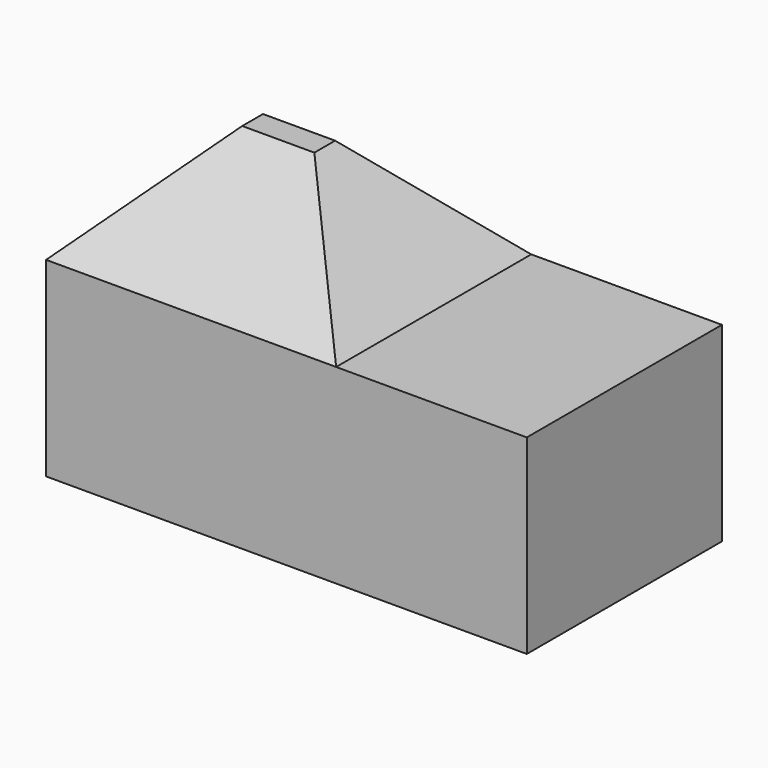
from build123d import *

# Parameters (mm, degrees)
F0_W     = 135.237008
F0_H     = 113.707788
F1_DEPTH = 139.7
F2_SIZE  = 50.8
F3_W     = 113.707788
F3_H     = 88.9
F4_DEPTH = 88.9


with BuildPart() as f1:
    # F0 (on Top) → F1 (new body)
    with BuildSketch(Plane.XY):
        with Locations((67.618504, 56.853894)):
            Rectangle(F0_W, F0_H)
    extrude(amount=F1_DEPTH)

    # F2
    f2_edges = [f1.edges().sort_by_distance(p)[0] for p in [
        (0, 56.853894, 139.7),
        (67.618504, 0, 139.7),
        (135.237008, 56.853894, 139.7),
        (67.618504, 113.707788, 139.7),
    ]]
    chamfer(f2_edges, length=F2_SIZE)

    # F3 (on face) → F4 (join)
    with BuildSketch(Plane.YZ.offset(135.237008)):
        with Locations((56.853894, 44.45)):
            Rectangle(F3_W, F3_H)
    extrude(amount=F4_DEPTH)


solid = f1.part
